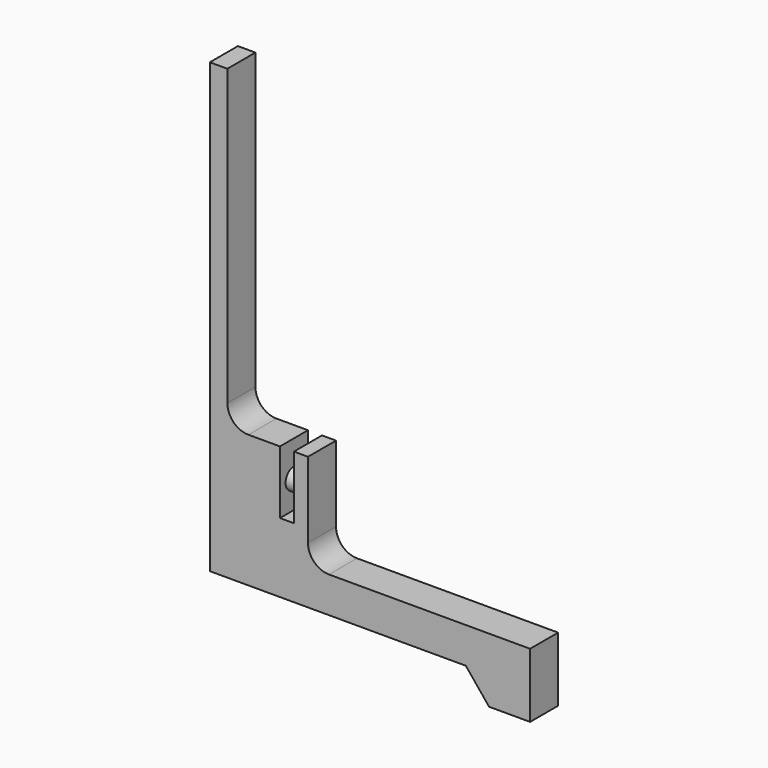
from build123d import *

# Parameters (mm, degrees)
F1_DEPTH = 25
F2_R     = 7.5
F3_DEPTH = 56


with BuildPart() as f1:
    # F0 (on Front) → F1 (new body)
    with BuildSketch(Plane.XZ):
        with BuildLine():
            Line((0, 340), (0, 20.368358))
            Line((0, 20.368358), (182.606146, 20.368358))
            Line((182.606146, 20.368358), (199.176565, 0))
            Line((199.176565, 0), (228.461571, 0))
            Line((228.461571, 0), (228.461571, 45.940024))
            Line((228.461571, 45.940024), (85, 45.940024))
            ThreePointArc((85, 45.940024), (74.393398, 50.333422), (70, 60.940024))
            Line((70, 60.940024), (70, 100))
            Line((70, 100), (70, 115))
            Line((70, 115), (60, 115))
            Line((60, 115), (60, 100))
            Line((60, 100), (60, 70))
            Line((60, 70), (50, 70))
            Line((50, 70), (50, 100))
            Line((50, 100), (50, 115))
            Line((50, 115), (27.5, 115))
            ThreePointArc((27.5, 115), (16.893398, 119.393398), (12.5, 130))
            Line((12.5, 130), (12.5, 340))
            Line((12.5, 340), (0, 340))
        make_face()
    extrude(amount=F1_DEPTH)

    # F2 (on face) → F3 (join)
    with BuildSketch(Plane.YZ.offset(70)):
        with Locations((-12.5, 90)):
            Circle(F2_R)
    extrude(amount=-F3_DEPTH)


solid = f1.part
